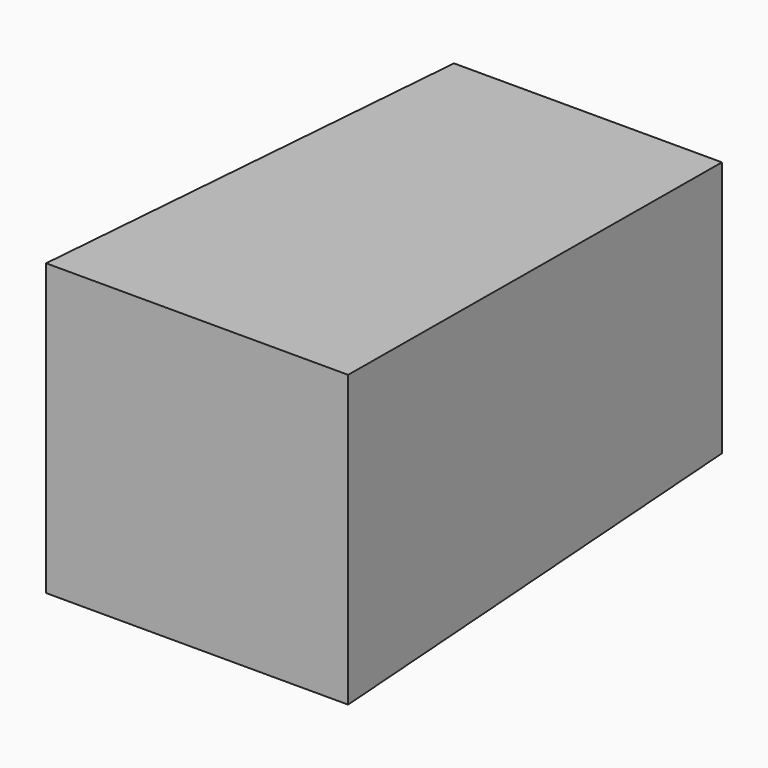
from build123d import *

# Parameters (mm, degrees)
F0_W     = 69.6450695395
F0_H     = 66.6049271822
F1_DEPTH = 127
F1_TAPER = -2


with BuildPart() as f1:
    # F0 (on Front) → F1 (new body)
    with BuildSketch(Plane.XZ):
        with Locations((-7.3645561934, -2.4430379272)):
            Rectangle(F0_W, F0_H)
    extrude(amount=F1_DEPTH, taper=F1_TAPER)


solid = f1.part
